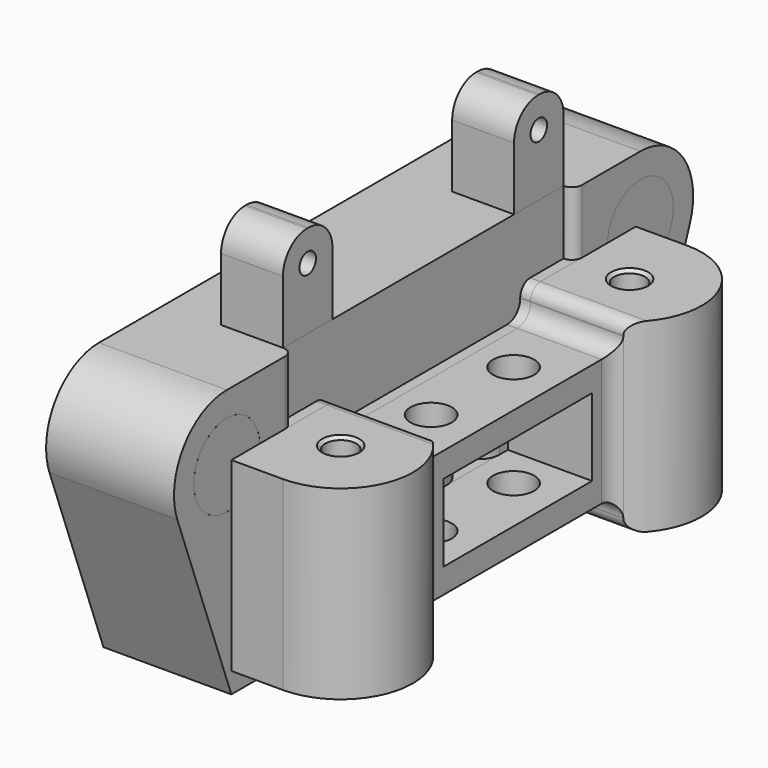
from build123d import *

# Parameters (mm, degrees)
SKETCH019_R             = 4
SKETCH019_W             = 2.4
SKETCH019_H             = 7.5
PAD006_DEPTH            = 6.2
FILLET_R                = 2
SKETCH027_W             = 34
SKETCH027_H             = 6.2
POCKET003_DEPTH         = 1
FILLET005_R             = 0.99
SKETCH028_W             = 23.5
SKETCH028_H             = 2.85
POCKET004_DEPTH         = 1
FILLET006_R             = 1.6
FILLET007_R             = 1.2
SKETCH020_R             = 4
PAD_DEPTH               = 1.2
SKETCH021_R             = 4
PAD007_DEPTH            = 1.2
BODY003_PLACEMENT_ANGLE = 180
SKETCH_R                = 1.5
SKETCH_R_2              = 2
PAD008_DEPTH            = 9
SKETCH022_W             = 18
SKETCH022_H             = 7.5
POCKET_DEPTH            = 0.001
POCKET_DEPTH_BACK       = -18.201
SKETCH023_W             = 23.5
SKETCH023_H             = 10
POCKET001_DEPTH         = 0.001
POCKET001_DEPTH_BACK    = -18.201
SKETCH024_W             = 23.5
SKETCH024_H             = 10
POCKET002_DEPTH         = 0.001
POCKET002_DEPTH_BACK    = -18.201
FILLET001_R             = 1.6
FILLET002_R             = 1.2
CHAMFER_SIZE            = 0.3
SKETCH025_W             = 6
SKETCH025_H             = 9
SKETCH025_R             = 1
PAD009_DEPTH            = 3
FILLET003_R             = 2.9
SKETCH026_W             = 6
SKETCH026_H             = 9
SKETCH026_R             = 1
PAD010_DEPTH            = 3
FILLET004_R             = 2.9


with BuildPart() as rodholder:
    # Sketch019 → Pad006 (new body, symmetric)
    with BuildSketch(Plane(origin=(0, 0, 0), x_dir=(0, -1, 0), z_dir=(-1, 0, 0))):
        with BuildLine():
            ThreePointArc((-25.05, 15.2), (-30.306697, 12.450635), (-31.046964, 6.564731))
            Line((-31.046964, 6.564731), (-24.5, -11))
            Line((-24.5, -11), (24.5, -11))
            Line((24.5, -11), (31.046964, 6.564731))
            ThreePointArc((31.046964, 6.564731), (30.306697, 12.450635), (25.05, 15.2))
            Line((-25.05, 15.2), (25.05, 15.2))
        make_face()
        with Locations((25.05, 8.8)):
            Circle(SKETCH019_R, mode=Mode.SUBTRACT)
        with Locations((-25.05, 8.8)):
            Circle(SKETCH019_R, mode=Mode.SUBTRACT)
        with Locations((-4.8, 0)):
            Rectangle(SKETCH019_W, SKETCH019_H, mode=Mode.SUBTRACT)
        with Locations((4.8, 0)):
            Rectangle(SKETCH019_W, SKETCH019_H, mode=Mode.SUBTRACT)
    extrude(amount=PAD006_DEPTH, both=True)

    # Fillet
    fillet_edges = [rodholder.edges().sort_by_distance(p)[0] for p in [
        (6.2, -6, 0),
        (6.2, -3.6, 0),
        (6.2, 3.6, 0),
        (6.2, 6, 0),
    ]]
    fillet(fillet_edges, radius=FILLET_R)

    # Sketch027 (on Face5 of Fillet) → Pocket003 (cut)
    with BuildSketch(Plane(origin=(6.2, 0, 0), x_dir=(0, -1, 0), z_dir=(1, 0, 0))):
        with Locations((0, -12.1)):
            Rectangle(SKETCH027_W, SKETCH027_H)
    extrude(amount=-POCKET003_DEPTH, mode=Mode.SUBTRACT)

    # Fillet005
    fillet005_edges = [rodholder.edges().sort_by_distance(p)[0] for p in [
        (6.2, -17, 12.1),
        (6.2, 17, 12.1),
    ]]
    fillet(fillet005_edges, radius=FILLET005_R)

    # Sketch028 (on Face1 of Fillet005) → Pocket004 (cut)
    with BuildSketch(Plane(origin=(6.2, 0, 0), x_dir=(0, -1, 0), z_dir=(1, 0, 0))):
        with Locations((0, -7.575)):
            Rectangle(SKETCH028_W, SKETCH028_H)
    extrude(amount=-POCKET004_DEPTH, mode=Mode.SUBTRACT)

    # Fillet006
    fillet006_edges = [rodholder.edges().sort_by_distance(p)[0] for p in [
        (5.7, -11.75, 6.15),
        (5.7, 11.75, 6.15),
    ]]
    fillet(fillet006_edges, radius=FILLET006_R)

    # Fillet007
    fillet007_edges = [rodholder.edges().sort_by_distance(p)[0] for p in [
        (5.7, -11.75, 9),
        (5.7, 11.75, 9),
    ]]
    fillet(fillet007_edges, radius=FILLET007_R)


with BuildPart() as rodcapleft:
    # Sketch020 → Pad (new body, symmetric)
    with BuildSketch(Plane.YZ):
        with Locations((-25.05, 8.8)):
            Circle(SKETCH020_R)
    extrude(amount=PAD_DEPTH, both=True)


with BuildPart() as rodcapleft_1:
    # Body placement: moved
    add(rodcapleft.part.moved(Location((5, 0, 0))))


with BuildPart() as rodcapright:
    # Sketch021 → Pad007 (new body, symmetric)
    with BuildSketch(Plane.YZ):
        with Locations((-25.05, 8.8)):
            Circle(SKETCH021_R)
    extrude(amount=PAD007_DEPTH, both=True)


with BuildPart() as rodcapright_1:
    # Body003 placement: moved
    add(rodcapright.part.moved(Location((5, 0, 0))).rotate(Axis((5, 0, 0), (0, 0, 1)), BODY003_PLACEMENT_ANGLE))


with BuildPart() as obj1:
    # Sketch → Pad008 (new body, symmetric)
    with BuildSketch(Plane.XY):
        with BuildLine():
            Line((6.2, 24.5), (6.2, -24.5))
            Line((6.2, -24.5), (11.2, -24.5))
            ThreePointArc((11.2, -24.5), (17.876019, -19.604941), (15.215035, -11.765936))
            ThreePointArc((14.362188, -10.127632), (14.588166, -11.051129), (15.215035, -11.765936))
            Line((14.362188, 10.127632), (14.362188, -10.127632))
            ThreePointArc((15.215035, 11.765936), (14.588166, 11.051129), (14.362188, 10.127632))
            ThreePointArc((15.215035, 11.765936), (17.876019, 19.604941), (11.2, 24.5))
            Line((6.2, 24.5), (11.2, 24.5))
        make_face()
        with Locations((11.2, -17.5)):
            Circle(SKETCH_R, mode=Mode.SUBTRACT)
        with Locations((11.2, 17.5)):
            Circle(SKETCH_R, mode=Mode.SUBTRACT)
        with Locations((9.962188, 5)):
            Circle(SKETCH_R_2, mode=Mode.SUBTRACT)
        with Locations((9.962188, -5)):
            Circle(SKETCH_R_2, mode=Mode.SUBTRACT)
    extrude(amount=PAD008_DEPTH, both=True)

    # Sketch022 → Pocket (cut, two sides)
    with BuildSketch(Plane.YZ) as pocket_sk:
        Rectangle(SKETCH022_W, SKETCH022_H)
    extrude(amount=-POCKET_DEPTH, mode=Mode.SUBTRACT)
    extrude(pocket_sk.sketch, amount=-POCKET_DEPTH_BACK, mode=Mode.SUBTRACT)

    # Sketch023 → Pocket001 (cut, two sides)
    with BuildSketch(Plane.YZ) as pocket001_sk:
        with Locations((0, 11.15)):
            Rectangle(SKETCH023_W, SKETCH023_H)
    extrude(amount=-POCKET001_DEPTH, mode=Mode.SUBTRACT)
    extrude(pocket001_sk.sketch, amount=-POCKET001_DEPTH_BACK, mode=Mode.SUBTRACT)

    # Sketch024 → Pocket002 (cut, two sides)
    with BuildSketch(Plane.YZ) as pocket002_sk:
        with Locations((0, -11.15)):
            Rectangle(SKETCH024_W, SKETCH024_H)
    extrude(amount=-POCKET002_DEPTH, mode=Mode.SUBTRACT)
    extrude(pocket002_sk.sketch, amount=-POCKET002_DEPTH_BACK, mode=Mode.SUBTRACT)

    # Fillet001
    fillet001_edges = [obj1.edges().sort_by_distance(p)[0] for p in [
        (10.696303, -11.75, 6.15),
        (10.696303, 11.75, 6.15),
        (10.696303, 11.75, -6.15),
        (10.696303, -11.75, -6.15),
    ]]
    fillet(fillet001_edges, radius=FILLET001_R)

    # Fillet002
    fillet002_edges = [obj1.edges().sort_by_distance(p)[0] for p in [
        (10.696303, -11.75, 9),
        (10.696303, 11.75, 9),
        (10.696303, 11.75, -9),
        (10.696303, -11.75, -9),
    ]]
    fillet(fillet002_edges, radius=FILLET002_R)

    # Chamfer
    chamfer_edges = [obj1.edges().sort_by_distance(p)[0] for p in [
        (9.7, -17.5, 9),
        (9.7, 17.5, 9),
        (9.7, -17.5, -9),
        (9.7, 17.5, -9),
    ]]
    chamfer(chamfer_edges, length=CHAMFER_SIZE)


with BuildPart() as leftmotormount:
    # Sketch025 → Pad009 (new body, symmetric)
    with BuildSketch(Plane.YZ):
        with Locations((-14, 19.7)):
            Rectangle(SKETCH025_W, SKETCH025_H)
        with Locations((-14, 21.2)):
            Circle(SKETCH025_R, mode=Mode.SUBTRACT)
    extrude(amount=PAD009_DEPTH, both=True)

    # Fillet003
    fillet003_edges = [leftmotormount.edges().sort_by_distance(p)[0] for p in [
        (0, -11, 24.2),
        (0, -17, 24.2),
    ]]
    fillet(fillet003_edges, radius=FILLET003_R)


with BuildPart() as leftmotormount_1:
    # Body005 placement: moved
    add(leftmotormount.part.moved(Location((2.2, 0, 0))))


with BuildPart() as rightservomount:
    # Sketch026 → Pad010 (new body, symmetric)
    with BuildSketch(Plane.YZ):
        with Locations((14, 19.7)):
            Rectangle(SKETCH026_W, SKETCH026_H)
        with Locations((14, 21.2)):
            Circle(SKETCH026_R, mode=Mode.SUBTRACT)
    extrude(amount=PAD010_DEPTH, both=True)

    # Fillet004
    fillet004_edges = [rightservomount.edges().sort_by_distance(p)[0] for p in [
        (0, 17, 24.2),
        (0, 11, 24.2),
    ]]
    fillet(fillet004_edges, radius=FILLET004_R)


with BuildPart() as rightservomount_1:
    # Body006 placement: moved
    add(rightservomount.part.moved(Location((2.2, 0, 0))))


solid = Compound([rodholder.part, rodcapleft_1.part, rodcapright_1.part, obj1.part, leftmotormount_1.part, rightservomount_1.part])
